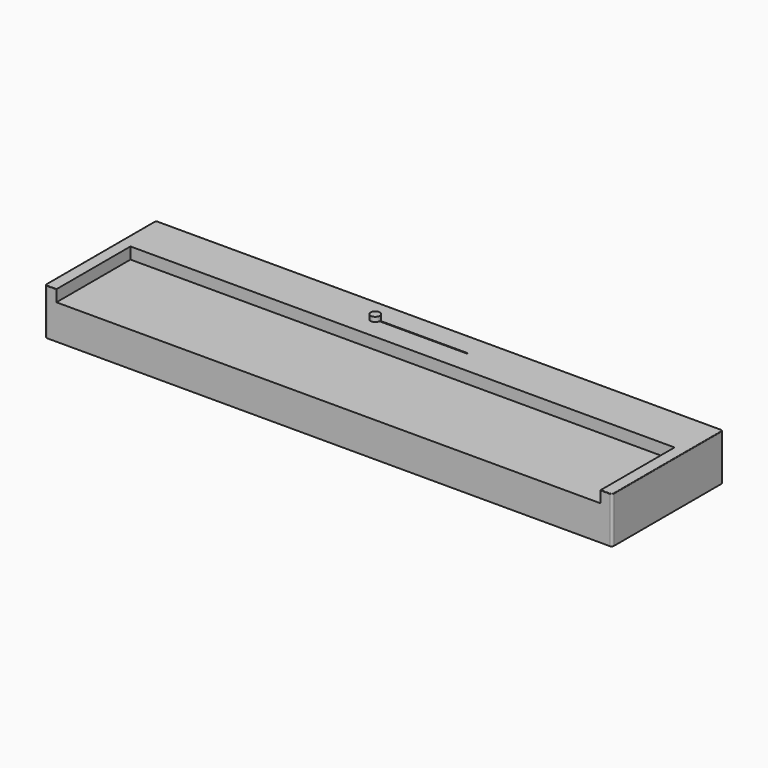
from build123d import *

# Parameters (mm, degrees)
F0_W     = 1226
F0_H     = 300
F1_DEPTH = 100
F2_W     = 1176
F2_H     = 200
F3_DEPTH = 25
F4_W     = 200
F4_H     = 2
F5_DEPTH = 2
F6_R     = 10
F7_DEPTH = 10
F8_R     = 5
F9_R     = 1


with BuildPart() as f1:
    # F0 (on Top) → F1 (new body)
    with BuildSketch(Plane.XY):
        Rectangle(F0_W, F0_H)
    extrude(amount=F1_DEPTH)

    # F2 (on face) → F3 (cut)
    with BuildSketch(Plane.XY.offset(100)):
        with Locations((0, -50)):
            Rectangle(F2_W, F2_H)
    extrude(amount=-F3_DEPTH, mode=Mode.SUBTRACT)

    # F4 (on face) → F5 (cut)
    with BuildSketch(Plane.XY.offset(100)):
        with Locations((0, 100)):
            Rectangle(F4_W, F4_H)
    extrude(amount=-F5_DEPTH, mode=Mode.SUBTRACT)

    # F8
    f8_edges = [f1.edges().sort_by_distance(p)[0] for p in [
        (-613, 150, 50),
        (-613, -150, 50),
        (613, -150, 50),
        (613, 150, 50),
    ]]
    fillet(f8_edges, radius=F8_R)

    # F9
    f9_edges = [f1.edges().sort_by_distance(p)[0] for p in [
        (-613, 0, 100),
    ]]
    fillet(f9_edges, radius=F9_R)


with BuildPart() as f7:
    # F6 (on face) → F7 (new body)
    with BuildSketch(Plane.XY.offset(100)):
        with Locations((-99, 100)):
            Circle(F6_R)
    extrude(amount=F7_DEPTH)


solid = Compound([f1.part, f7.part])
